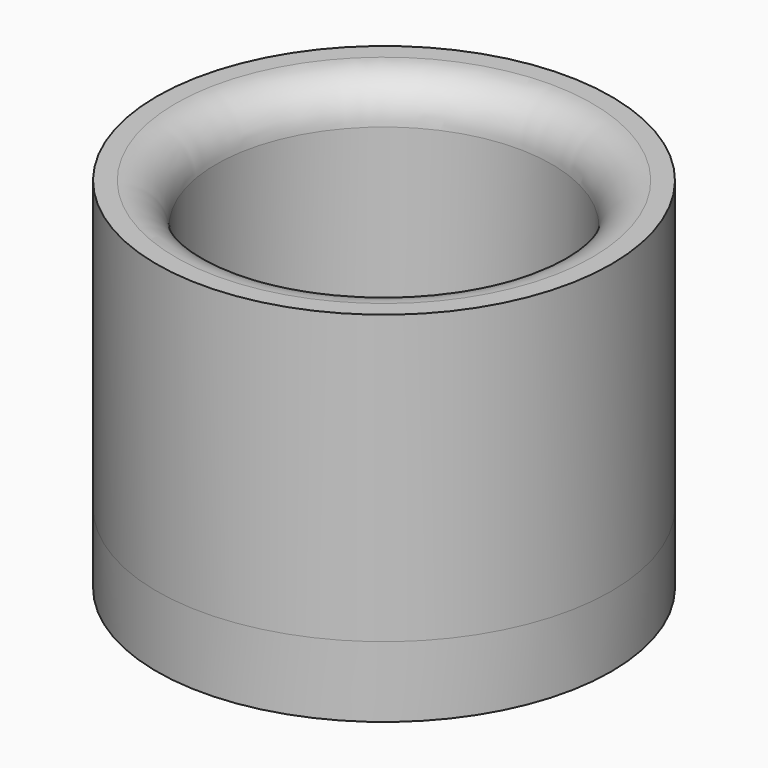
from build123d import *

# Parameters (mm, degrees)
SKETCH064_R     = 4.5
PAD029_DEPTH    = 1.4
SKETCH065_R     = 4.5
PAD030_DEPTH    = 5.7
SKETCH066_R     = 3.325
POCKET031_DEPTH = 5.7
FILLET002_R     = 0.8


with BuildPart() as part:
    # Sketch064 → Pad029 (new body)
    with BuildSketch(Plane.XY):
        with Locations((-7.58, -28.79)):
            Circle(SKETCH064_R)
    extrude(amount=-PAD029_DEPTH)

    # Sketch065 → Pad030 (join)
    with BuildSketch(Plane.XY):
        with Locations((-7.58, -28.79)):
            Circle(SKETCH065_R)
    extrude(amount=PAD030_DEPTH)

    # Sketch066 → Pocket031 (cut)
    with BuildSketch(Plane.XY):
        with Locations((-7.58, -28.79)):
            Circle(SKETCH066_R)
    extrude(amount=POCKET031_DEPTH, mode=Mode.SUBTRACT)

    # Fillet002
    fillet002_edges = [part.edges().sort_by_distance(p)[0] for p in [
        (-10.905, -28.79, 5.7),
    ]]
    fillet(fillet002_edges, radius=FILLET002_R)


with BuildPart() as part_1:
    # Body009 placement: moved
    add(part.part.moved(Location((0, 0, 16.4))))


solid = part_1.part
